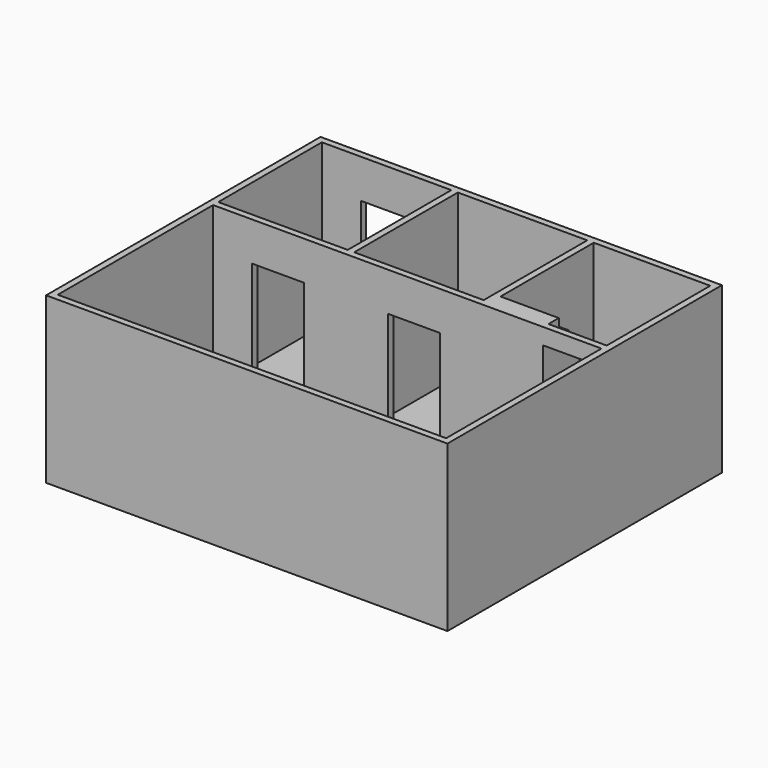
from build123d import *

# Parameters (mm, degrees)
F0_W      = 100
F0_H      = 100
F0_H_2    = 2000
F0_W_2    = 900
F1_DEPTH  = 2500
F2_W      = 800
F2_H      = 1900
F3_DEPTH  = 2070
F4_DEPTH  = 1630
F6_W      = 6200
F6_H      = 5300
F7_DEPTH  = 50
F9_DEPTH  = 1000
F10_DEPTH = 1900
F8_W      = 200
F8_H      = 250
F11_DEPTH = 1900
F12_DEPTH = 1000
F13_DEPTH = 1480
F14_DEPTH = 1000
F15_DEPTH = 100
F16_W     = 900
F16_H     = 166.3858890533
F16_H_2   = 83.6141109467
F17_DEPTH = 200


with BuildPart() as f1:
    # F0 (on Top) → F1 (new body)
    with BuildSketch(Plane.XY):
        Polygon((-1956.1421014369, 1922.7362155914), (-1956.1421014369, 1822.7362155914), (43.8578985631, 1822.7362155914), (43.8578985631, -177.2637844086), (143.8578985631, -177.2637844086), (143.8578985631, 1822.7362155914), (143.8578985631, 1922.7362155914), align=None)
        with Locations((-2006.1421014369, 1872.7362155914)):
            Rectangle(F0_W, F0_H)
        Polygon((2143.8578985631, -177.2637844086), (143.8578985631, -177.2637844086), (143.8578985631, -277.2637844086), (2243.8578985631, -277.2637844086), (2243.8578985631, -177.2637844086), align=None)
        Polygon((2243.8578985631, 1922.7362155914), (143.8578985631, 1922.7362155914), (143.8578985631, 1822.7362155914), (2143.8578985631, 1822.7362155914), (2143.8578985631, -177.2637844086), (2243.8578985631, -177.2637844086), (2243.8578985631, 1822.7362155914), align=None)
        with Locations((-2006.1421014369, 822.7362155914)):
            Rectangle(F0_W, F0_H_2)
        Polygon((43.8578985631, -177.2637844086), (-1956.1421014369, -177.2637844086), (-2056.1421014369, -177.2637844086), (-2056.1421014369, -277.2637844086), (-1956.1421014369, -277.2637844086), (143.8578985631, -277.2637844086), (143.8578985631, -177.2637844086), align=None)
        Polygon((-1956.1421014369, -277.2637844086), (-2056.1421014369, -277.2637844086), (-2056.1421014369, -3377.2637844086), (4143.8578985631, -3377.2637844086), (4143.8578985631, -177.2637844086), (4043.8578985631, -177.2637844086), (4043.8578985631, -277.2637844086), (4043.8578985631, -3277.2637844086), (-1956.1421014369, -3277.2637844086), align=None)
        with Locations((2693.8578985631, 1872.7362155914)):
            Rectangle(F0_W_2, F0_H)
        Polygon((4143.8578985631, 1922.7362155914), (3143.8578985631, 1922.7362155914), (3143.8578985631, 1822.7362155914), (4043.8578985631, 1822.7362155914), (4043.8578985631, -177.2637844086), (4143.8578985631, -177.2637844086), align=None)
    extrude(amount=F1_DEPTH)

    # F2 (on Front) → F3 (cut, symmetric)
    with BuildSketch(Plane.XZ):
        with Locations((-952.7319908142, 950)):
            Rectangle(F2_W, F2_H)
    extrude(amount=F3_DEPTH, both=True, mode=Mode.SUBTRACT)

    # F2 (on Front) → F4 (cut)
    with BuildSketch(Plane.XZ):
        with Locations((1147.2680091858, 950)):
            Rectangle(F2_W, F2_H)
    extrude(amount=F4_DEPTH, mode=Mode.SUBTRACT)

    # F6 (on face) → F7 (join)
    with BuildSketch(Plane.XY):
        with Locations((1043.8578985631, -727.2637844086)):
            Rectangle(F6_W, F6_H)
    extrude(amount=-F7_DEPTH)

    # F8 (on offset) → F9 (join)
    with BuildSketch(Plane.YZ.offset(4143.8578985631)):
        Polygon((22.7362155914, 0), (1822.7362155914, 0), (1822.7362155914, 250), (222.7362155914, 250), (22.7362155914, 250), align=None)
        Polygon((222.7362155914, 250), (1822.7362155914, 250), (1822.7362155914, 500), (422.7362155914, 500), (222.7362155914, 500), align=None)
        Polygon((422.7362155914, 500), (1822.7362155914, 500), (1822.7362155914, 750), (622.7362155914, 750), (422.7362155914, 750), align=None)
    extrude(amount=-F9_DEPTH)

    # F8 (on offset) → F10 (join)
    with BuildSketch(Plane.YZ.offset(4143.8578985631)):
        Polygon((622.7362155914, 750), (1822.7362155914, 750), (1822.7362155914, 1000), (1022.7362155914, 1000), (622.7362155914, 1000), align=None)
    extrude(amount=-F10_DEPTH)

    # F8 (on offset) → F11 (join)
    with BuildSketch(Plane.YZ.offset(4143.8578985631)):
        with Locations((-77.2637844086, 2375)):
            Rectangle(F8_W, F8_H)
        Polygon((-177.2637844086, 2250), (-177.2637844086, 2000), (222.7362155914, 2000), (222.7362155914, 2250), (22.7362155914, 2250), align=None)
        Polygon((-177.2637844086, 2000), (-177.2637844086, 1750), (422.7362155914, 1750), (422.7362155914, 2000), (222.7362155914, 2000), align=None)
        Polygon((-177.2637844086, 1750), (-177.2637844086, 1500), (622.7362155914, 1500), (622.7362155914, 1750), (422.7362155914, 1750), align=None)
        Polygon((-177.2637844086, 1500), (-177.2637844086, 1250), (822.7362155914, 1250), (822.7362155914, 1500), (622.7362155914, 1500), align=None)
        Polygon((-177.2637844086, 1250), (-177.2637844086, 1000), (622.7362155914, 1000), (1022.7362155914, 1000), (1022.7362155914, 1250), (822.7362155914, 1250), align=None)
    extrude(amount=-F11_DEPTH)

    # F8 (on offset) → F12 (cut)
    with BuildSketch(Plane.YZ.offset(4143.8578985631)):
        Polygon((-177.2637844086, 2250), (-177.2637844086, 2000), (222.7362155914, 2000), (222.7362155914, 2250), (22.7362155914, 2250), align=None)
        Polygon((-177.2637844086, 2000), (-177.2637844086, 1750), (422.7362155914, 1750), (422.7362155914, 2000), (222.7362155914, 2000), align=None)
        Polygon((-177.2637844086, 1750), (-177.2637844086, 1500), (622.7362155914, 1500), (622.7362155914, 1750), (422.7362155914, 1750), align=None)
        Polygon((-177.2637844086, 1500), (-177.2637844086, 1250), (822.7362155914, 1250), (822.7362155914, 1500), (622.7362155914, 1500), align=None)
        Polygon((-177.2637844086, 1250), (-177.2637844086, 1000), (622.7362155914, 1000), (1022.7362155914, 1000), (1022.7362155914, 1250), (822.7362155914, 1250), align=None)
    extrude(amount=-F12_DEPTH, mode=Mode.SUBTRACT)

    # F13 (add): a face of the model
    f13_faces = [f1.faces().sort_by_distance(p)[0] for p in [
        (4093.8578985631, -177.2637844086, 1625),
    ]]
    extrude(f13_faces, amount=F13_DEPTH)

    # F0 (on Top) → F14 (join)
    with BuildSketch(Plane.XY):
        with Locations((2693.8578985631, 822.7362155914)):
            Rectangle(F0_W_2, F0_H_2)
    extrude(amount=F14_DEPTH)

    # F15 (add): a face of the model
    f15_faces = [f1.faces().sort_by_distance(p)[0] for p in [
        (2775.6760803813, -177.2637844086, 1352.2727272727),
    ]]
    extrude(f15_faces, amount=F15_DEPTH)

    # F16 (on face) → F17 (cut)
    with BuildSketch(Plane(origin=(0, 22.7362155914, 0), x_dir=(-1, 0, 0), z_dir=(0, 1, 0))):
        with Locations((-3593.8578985631, 2416.8070554733)):
            Rectangle(F16_W, F16_H)
        with Locations((-3593.8578985631, 2291.8070554733)):
            Rectangle(F16_W, F16_H_2)
    extrude(amount=-F17_DEPTH, mode=Mode.SUBTRACT)


solid = f1.part
